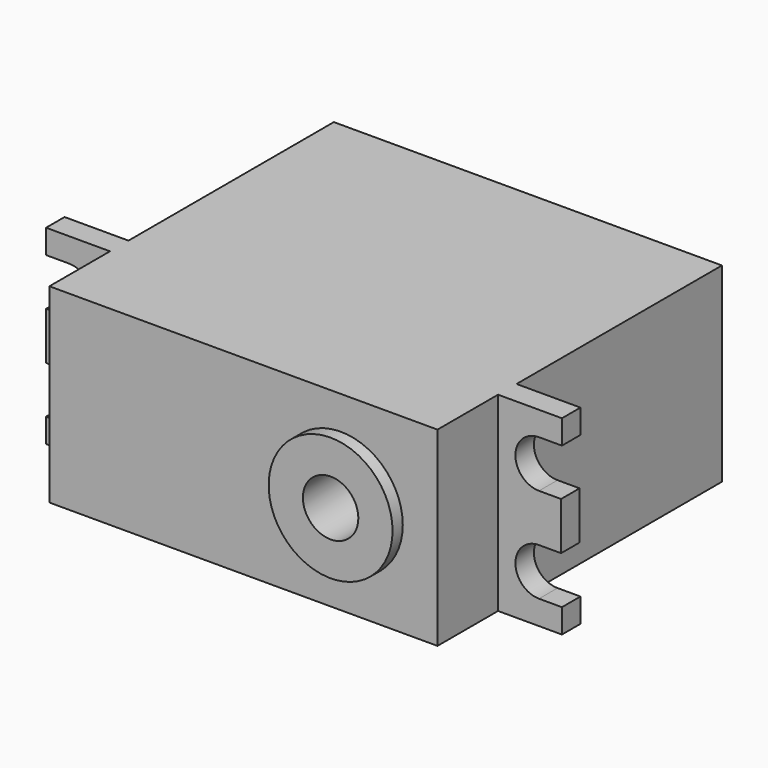
from build123d import *

# Parameters (mm, degrees)
F0_W          = 40.894
F0_H          = 20.066
F1_DEPTH      = 27.051
F1_DEPTH_BACK = 10.414
F3_DEPTH      = 2.4384
F4_R          = 6.5278
F5_DEPTH      = 11.7602
F6_R          = 2.921
F7_DEPTH      = 14.1986


with BuildPart() as f1:
    # F0 (on Front) → F1 (new body, two sides)
    with BuildSketch(Plane.XZ) as f1_sk:
        Rectangle(F0_W, F0_H)
    extrude(amount=-F1_DEPTH)
    extrude(f1_sk.sketch, amount=F1_DEPTH_BACK)

    # F2 (on Front) → F3 (join)
    with BuildSketch(Plane.XZ):
        with BuildLine():
            Line((27.178, 7.493), (27.178, 10.033))
            Line((27.178, 10.033), (-27.178, 10.033))
            Line((-27.178, 10.033), (-27.178, 7.4936705553))
            Line((-27.178, 7.4936705553), (-24.765, 7.4936705553))
            ThreePointArc((-24.765, 7.4936705553), (-22.2758, 5.0044705553), (-24.765, 2.5152705553))
            Line((-24.765, 2.5152705553), (-27.178, 2.5152705553))
            Line((-27.178, 2.5152705553), (-27.178, -2.5146000189))
            Line((-27.178, -2.5146000189), (-24.765, -2.5146000189))
            ThreePointArc((-24.765, -2.5146000189), (-22.2758000189, -5.0038), (-24.765, -7.4929999811))
            Line((-24.765, -7.4929999811), (-27.178, -7.4929999811))
            Line((-27.178, -7.4929999811), (-27.178, -10.033))
            Line((-27.178, -10.033), (27.178, -10.033))
            Line((27.178, -10.033), (27.178, -7.493))
            Line((27.178, -7.493), (24.765, -7.493))
            ThreePointArc((24.765, -7.493), (22.2758, -5.0038), (24.765, -2.5146))
            Line((24.765, -2.5146), (27.0891, -2.5146))
            Line((27.0891, -2.5146), (27.0891, 2.5146))
            Line((27.0891, 2.5146), (24.765, 2.5146))
            ThreePointArc((24.765, 2.5146), (22.2758, 5.0038), (24.765, 7.493))
            Line((24.765, 7.493), (27.178, 7.493))
        make_face()
    extrude(amount=F3_DEPTH)

    # F4 (on Front) → F5 (join)
    with BuildSketch(Plane.XZ):
        with Locations((10.2616, 0)):
            Circle(F4_R)
    extrude(amount=F5_DEPTH)

    # F6 (on Front) → F7 (cut)
    with BuildSketch(Plane.XZ):
        with Locations((10.2616, 0)):
            Circle(F6_R)
    extrude(amount=F7_DEPTH, mode=Mode.SUBTRACT)


solid = f1.part
